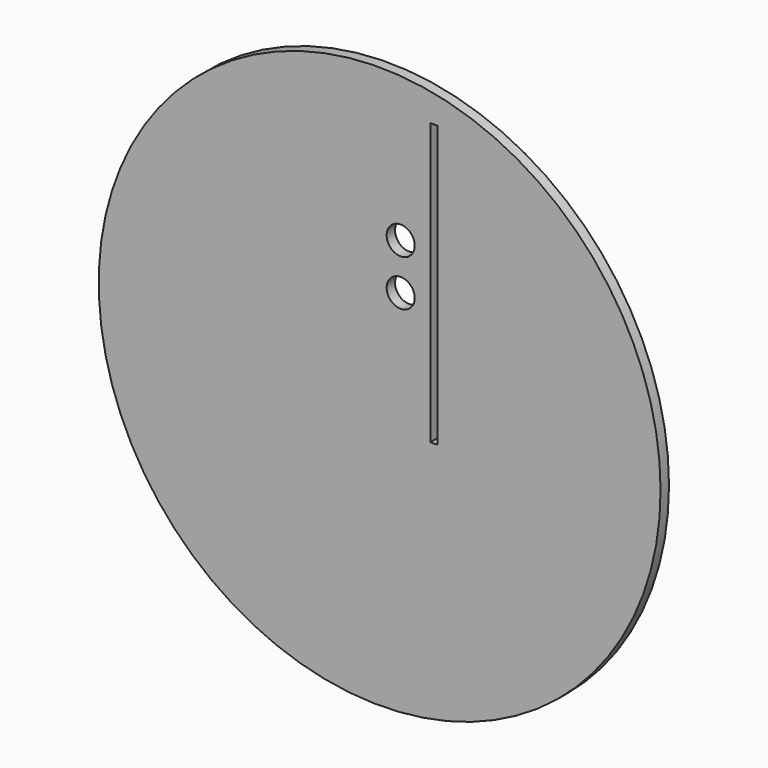
from build123d import *

# Parameters (mm, degrees)
F0_R     = 127
F1_DEPTH = 4.7625
F2_W     = 12.7
F2_H     = 76.2
F3_DEPTH = 25.4
F4_SIZE  = 5.08
F5_R     = 6.35
F6_DEPTH = 4.7635
F7_W     = 3.175
F7_H     = 127
F8_DEPTH = 4.7635


with BuildPart() as f1:
    # F0 (on Front) → F1 (new body)
    with BuildSketch(Plane.XZ):
        Circle(F0_R)
    extrude(amount=F1_DEPTH)

    # F5 (on face) → F6 (cut, through all)
    with BuildSketch(Plane.XZ.offset(4.7625)):
        with Locations((9.505124, 61.177523)):
            Circle(F5_R)
        with Locations((9.505124, 40.313245)):
            Circle(F5_R)
    extrude(amount=-F6_DEPTH, mode=Mode.SUBTRACT)

    # F7 (on face) → F8 (cut, through all)
    with BuildSketch(Plane.XZ.offset(4.7625)):
        with Locations((24.478537, 48.747311)):
            Rectangle(F7_W, F7_H)
    extrude(amount=-F8_DEPTH, mode=Mode.SUBTRACT)


with BuildPart() as f3:
    # F2 (on face) → F3 (new body)
    with BuildSketch(Plane.XZ.offset(4.7625)):
        with Locations((-221.724585, -33.983209)):
            Rectangle(F2_W, F2_H)
    extrude(amount=F3_DEPTH)

    # F4
    f4_edges = [f3.edges().sort_by_distance(p)[0] for p in [
        (-228.074585, -30.1625, -33.983209),
        (-215.374585, -30.1625, -33.983209),
        (-221.724585, -30.1625, 4.116791),
        (-221.724585, -30.1625, -72.083209),
    ]]
    chamfer(f4_edges, length=F4_SIZE)


solid = f1.part
